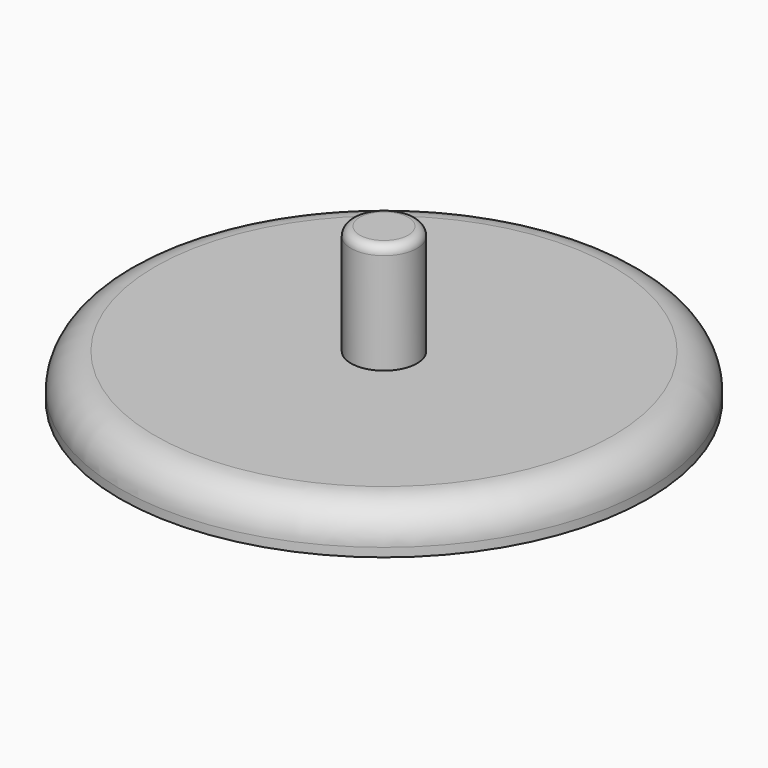
from build123d import *

# Parameters (mm, degrees)
F0_R     = 7.5
F1_DEPTH = 35
F0_R_2   = 60
F2_DEPTH = 10
F3_R     = 2
F4_R     = 8


with BuildPart() as f1:
    # F0 (on Top) → F1 (new body)
    with BuildSketch(Plane.XY):
        Circle(F0_R)
    extrude(amount=F1_DEPTH)

    # F3
    f3_edges = [f1.edges().sort_by_distance(p)[0] for p in [
        (-7.5, 0, 35),
    ]]
    fillet(f3_edges, radius=F3_R)


with BuildPart() as f2:
    # F0 (on Top) → F2 (new body)
    with BuildSketch(Plane.XY):
        Circle(F0_R_2)
        Circle(F0_R, mode=Mode.SUBTRACT)
    extrude(amount=F2_DEPTH)

    # F4
    f4_edges = [f2.edges().sort_by_distance(p)[0] for p in [
        (-60, 0, 10),
    ]]
    fillet(f4_edges, radius=F4_R)


solid = Compound([f1.part, f2.part])
